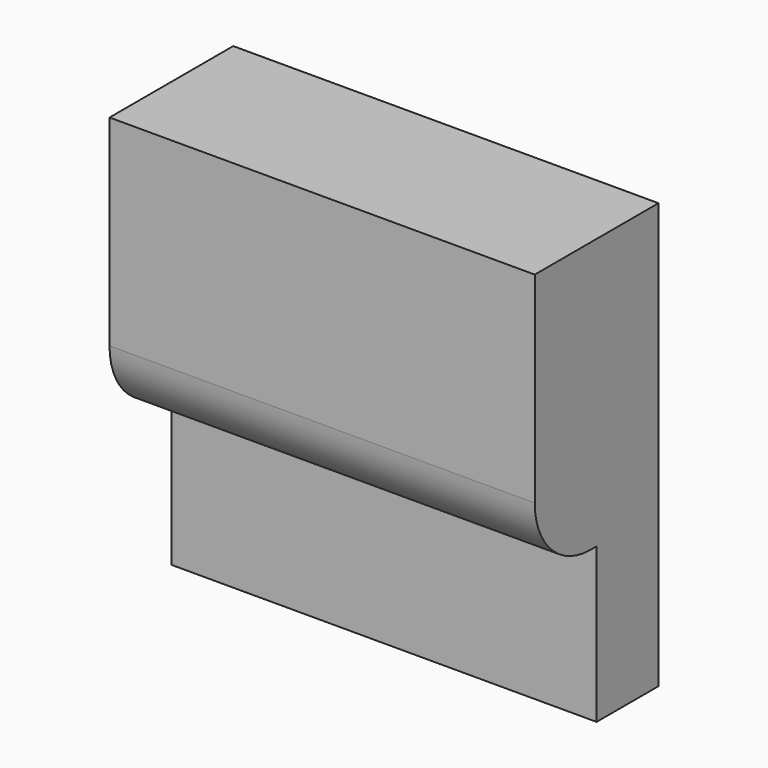
from build123d import *

# Parameters (mm, degrees)
BOX023_W     = 5.5
BOX023_H     = 1
BOX023_DEPTH = 2
BOX022_W     = 5.5
BOX022_H     = 2
BOX022_DEPTH = 5.5
FILLET005_R  = 0.9


with BuildPart() as button_1_cut003:
    # Box023 → Box023 (new body)
    with BuildSketch(Plane(origin=(5, 24, -15), x_dir=(1, 0, 0), z_dir=(0, 0, 1))):
        with Locations((2.75, 0.5)):
            Rectangle(BOX023_W, BOX023_H)
    extrude(amount=BOX023_DEPTH)


with BuildPart() as fillet005:
    # Box022 → Box022 (new body)
    with BuildSketch(Plane(origin=(5, 24, -15), x_dir=(1, 0, 0), z_dir=(0, 0, 1))):
        with Locations((2.75, 1)):
            Rectangle(BOX022_W, BOX022_H)
    extrude(amount=BOX022_DEPTH)

    # Cut003: cut Button 1 Cut003
    add(button_1_cut003.part, mode=Mode.SUBTRACT)

    # Fillet005
    fillet005_edges = [fillet005.edges().sort_by_distance(p)[0] for p in [
        (7.75, 24, -13),
    ]]
    fillet(fillet005_edges, radius=FILLET005_R)


with BuildPart() as fillet005_1:
    # Fillet005 placement: moved
    add(fillet005.part.moved(Location((-21, 0, 0))))


solid = fillet005_1.part
